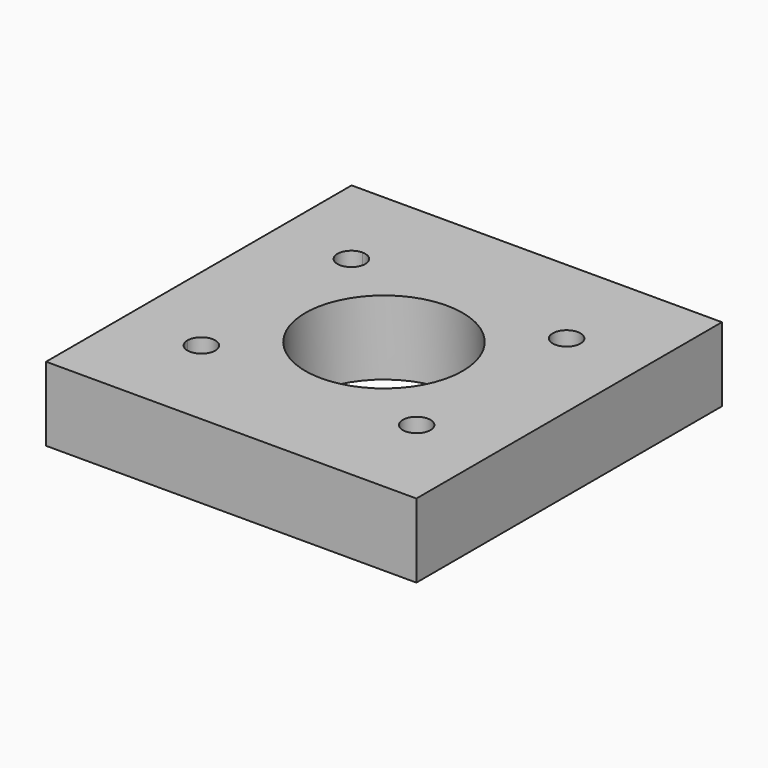
from build123d import *

# Parameters (mm, degrees)
F0_R     = 4.7625
F0_R_2   = 26.9875
F1_DEPTH = 25.4


with BuildPart() as f1:
    # F0 (on Top) → F1 (new body)
    with BuildSketch(Plane.XY):
        with BuildLine():
            Line((0, 33.3375), (0, 0))
            Line((0, 0), (26.59126, 0))
            Line((26.59126, 0), (26.59126, 28.575))
            ThreePointArc((26.59126, 28.575), (23.223664, 29.969904), (21.82876, 33.3375))
            Line((21.82876, 33.3375), (0, 33.3375))
        make_face()
        with Locations((100.40874, 33.3375)):
            Circle(F0_R)
        with BuildLine():
            ThreePointArc((31.35376, 97.62998), (29.958856, 100.997576), (26.59126, 102.39248))
            ThreePointArc((26.59126, 102.39248), (23.223664, 94.262384), (31.35376, 97.62998))
        make_face()
        with BuildLine():
            Line((26.59126, 28.575), (26.59126, 0))
            Line((26.59126, 0), (127, 0))
            Line((127, 0), (127, 33.3375))
            Line((127, 33.3375), (127, 130.96748))
            Line((127, 130.96748), (26.59126, 130.96748))
            Line((26.59126, 130.96748), (0, 130.96748))
            Line((0, 130.96748), (0, 33.3375))
            Line((0, 33.3375), (21.82876, 33.3375))
            ThreePointArc((21.82876, 33.3375), (26.59126, 38.1), (31.35376, 33.3375))
            ThreePointArc((31.35376, 33.3375), (29.958856, 29.969904), (26.59126, 28.575))
        make_face()
        with Locations((100.40874, 33.3375)):
            Circle(F0_R, mode=Mode.SUBTRACT)
        with BuildLine():
            ThreePointArc((31.35376, 97.62998), (23.223664, 94.262384), (26.59126, 102.39248))
            ThreePointArc((26.59126, 102.39248), (29.958856, 100.997576), (31.35376, 97.62998))
        make_face(mode=Mode.SUBTRACT)
        with Locations((63.5, 65.48374)):
            Circle(F0_R_2, mode=Mode.SUBTRACT)
        with Locations((100.40874, 97.62998)):
            Circle(F0_R, mode=Mode.SUBTRACT)
    extrude(amount=-F1_DEPTH)


solid = f1.part
